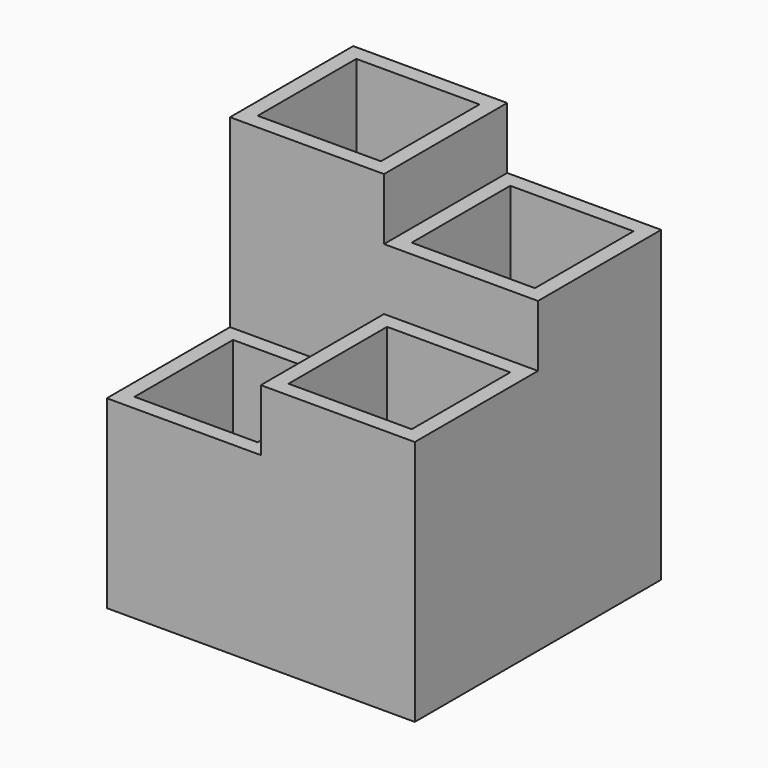
from build123d import *

# Parameters (mm, degrees)
F0_W      = 250
F0_H      = 250
F1_DEPTH  = 600
F2_DEPTH  = 500
F3_DEPTH  = 400
F4_DEPTH  = 300
F5_W      = 200
F5_H      = 200
F6_DEPTH  = 575
F7_W      = 200
F7_H      = 200
F8_DEPTH  = 475
F9_W      = 200
F9_H      = 200
F10_DEPTH = 375
F11_W     = 200
F11_H     = 200
F12_DEPTH = 275


with BuildPart() as f1:
    # F0 (on Top) → F1 (new body)
    with BuildSketch(Plane.XY):
        with Locations((125, 375)):
            Rectangle(F0_W, F0_H)
    extrude(amount=F1_DEPTH)

    # F0 (on Top) → F2 (join)
    with BuildSketch(Plane.XY):
        with Locations((375, 375)):
            Rectangle(F0_W, F0_H)
    extrude(amount=F2_DEPTH)

    # F0 (on Top) → F3 (join)
    with BuildSketch(Plane.XY):
        with Locations((375, 125)):
            Rectangle(F0_W, F0_H)
    extrude(amount=F3_DEPTH)

    # F0 (on Top) → F4 (join)
    with BuildSketch(Plane.XY):
        with Locations((125, 125)):
            Rectangle(F0_W, F0_H)
    extrude(amount=F4_DEPTH)

    # F5 (on face) → F6 (cut)
    with BuildSketch(Plane.XY.offset(600)):
        with Locations((125, 375)):
            Rectangle(F5_W, F5_H)
    extrude(amount=-F6_DEPTH, mode=Mode.SUBTRACT)

    # F7 (on face) → F8 (cut)
    with BuildSketch(Plane.XY.offset(500)):
        with Locations((375, 375)):
            Rectangle(F7_W, F7_H)
    extrude(amount=-F8_DEPTH, mode=Mode.SUBTRACT)

    # F9 (on face) → F10 (cut)
    with BuildSketch(Plane.XY.offset(400)):
        with Locations((375, 125)):
            Rectangle(F9_W, F9_H)
    extrude(amount=-F10_DEPTH, mode=Mode.SUBTRACT)

    # F11 (on face) → F12 (cut)
    with BuildSketch(Plane.XY.offset(300)):
        with Locations((125, 125)):
            Rectangle(F11_W, F11_H)
    extrude(amount=-F12_DEPTH, mode=Mode.SUBTRACT)


solid = f1.part
